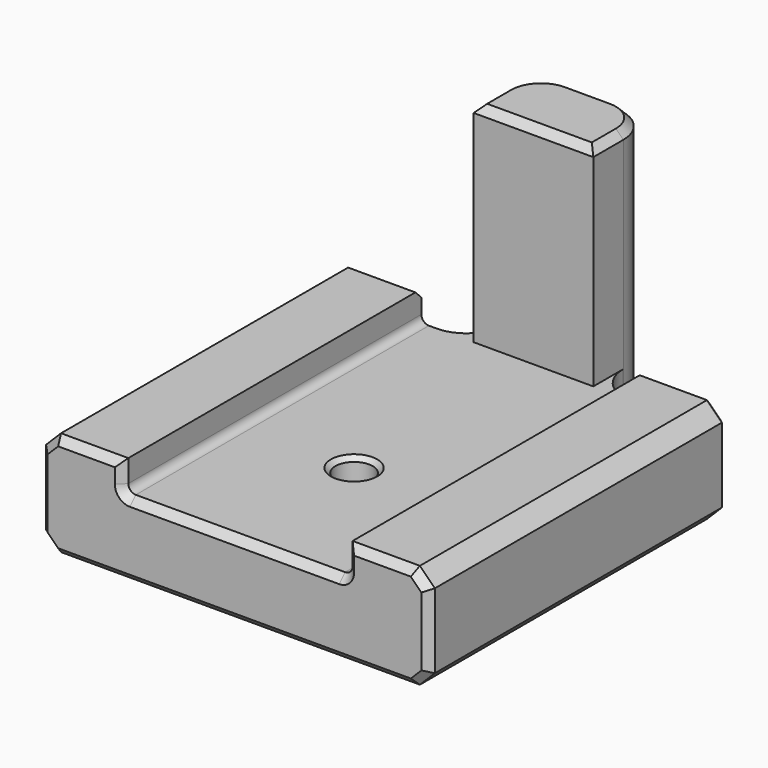
from build123d import *

# Parameters (mm, degrees)
PAD004_DEPTH    = 25
SKETCH032_W     = 8
SKETCH032_H     = 19
PAD005_DEPTH    = 5
SKETCH033_R     = 1.25
POCKET006_DEPTH = 12.001
FILLET_R        = 2.49
CHAMFER009_SIZE = 0.3
CHAMFER010_SIZE = 0.5


with BuildPart() as part:
    # Sketch031 → Pad004 (new body)
    with BuildSketch(Plane.XZ):
        with BuildLine():
            Line((-7.5, -5), (-7.5, -6.5))
            ThreePointArc((-7.5, -6.5), (-7.353553, -6.853553), (-7, -7))
            Line((-7, -7), (7, -7))
            ThreePointArc((7, -7), (7.353553, -6.853553), (7.5, -6.5))
            Line((7.5, -6.5), (7.5, -5))
            Line((7.5, -5), (12, -5))
            Line((12, -5), (13, -6))
            Line((13, -6), (13, -11))
            Line((13, -11), (12, -12))
            Line((12, -12), (-12, -12))
            Line((-12, -12), (-13, -11))
            Line((-13, -11), (-13, -6))
            Line((-13, -6), (-12, -5))
            Line((-12, -5), (-7.5, -5))
        make_face()
    extrude(amount=PAD004_DEPTH)

    # Sketch032 → Pad005 (join)
    with BuildSketch(Plane.XZ):
        with Locations((0, -2.5)):
            Rectangle(SKETCH032_W, SKETCH032_H)
    extrude(amount=-PAD005_DEPTH)

    # Sketch033 → Pocket006 (cut, through all)
    with BuildSketch(Plane.XY):
        with Locations((0, -15)):
            Circle(SKETCH033_R)
    extrude(amount=-POCKET006_DEPTH, mode=Mode.SUBTRACT)

    # Fillet
    fillet_edges = [part.edges().sort_by_distance(p)[0] for p in [
        (4, 0, -9.5),
        (-4, 0, -9.5),
        (-4, 5, -2.5),
        (4, 5, -2.5),
    ]]
    fillet(fillet_edges, radius=FILLET_R)

    # Chamfer009
    chamfer009_edges = [part.edges().sort_by_distance(p)[0] for p in [
        (-1.25, -15, -7),
        (-1.25, -15, -12),
    ]]
    chamfer(chamfer009_edges, length=CHAMFER009_SIZE)

    # Chamfer010
    chamfer010_edges = [part.edges().sort_by_distance(p)[0] for p in [
        (-7.5, -25, -5.75),
        (-7.353553, -25, -6.853553),
        (0, -25, -7),
        (7.353553, -25, -6.853553),
        (7.5, -25, -5.75),
        (9.75, -25, -5),
        (12.5, -25, -5.5),
        (13, -25, -8.5),
        (12.5, -25, -11.5),
        (0, -25, -12),
        (-12.5, -25, -11.5),
        (-13, -25, -8.5),
        (-12.5, -25, -5.5),
        (-9.75, -25, -5),
        (-4, 1.255, 7),
        (-3.270696, 4.270696, 7),
        (0, 0, 7),
        (0, 5, 7),
        (4, 1.255, 7),
        (3.270696, 4.270696, 7),
        (13, 0, -8.5),
        (12.5, 0, -5.5),
        (12.5, 0, -11.5),
        (9.75, 0, -5),
        (-9.75, 0, -5),
        (-12.5, 0, -5.5),
        (-13, 0, -8.5),
        (-12.5, 0, -11.5),
        (0, 5, -12),
    ]]
    chamfer(chamfer010_edges, length=CHAMFER010_SIZE)


with BuildPart() as part_1:
    # Body007 placement: moved
    add(part.part.moved(Location((0, 55, 0))))


solid = part_1.part
